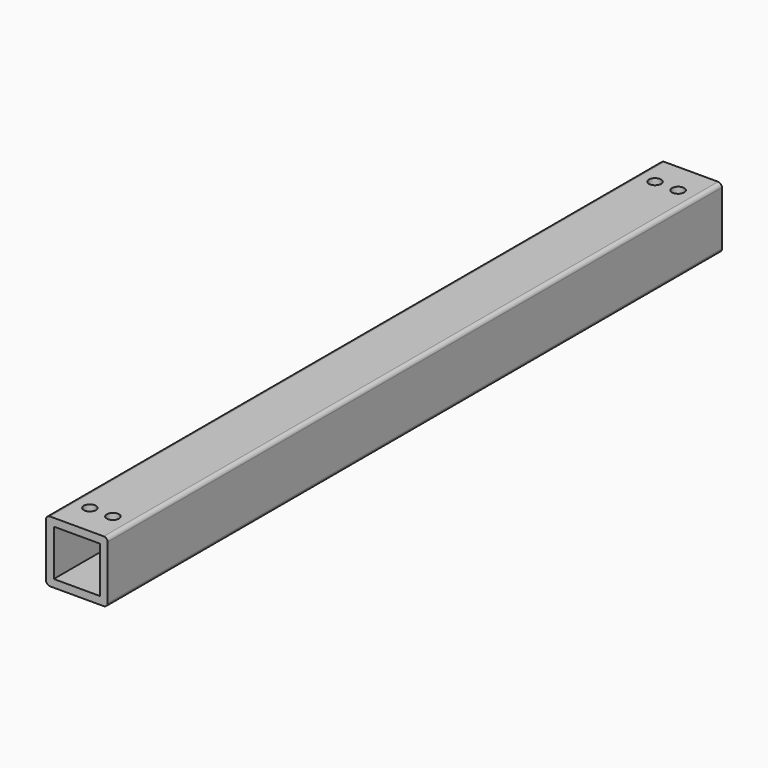
from build123d import *

# Parameters (mm, degrees)
F0_W     = 38.1
F0_H     = 38.1
F1_DEPTH = 634.38786
F2_R     = 5
F3_DEPTH = 25.4


with BuildPart() as f1:
    # F0 (on Front) → F1 (new body)
    with BuildSketch(Plane.XZ):
        with BuildLine():
            Line((15.980036, 28.785883), (-28.469964, 28.785883))
            ThreePointArc((-28.469964, 28.785883), (-30.715028, 27.855947), (-31.644964, 25.610883))
            Line((-31.644964, 25.610883), (-31.644964, -18.839117))
            ThreePointArc((-31.644964, -18.839117), (-30.715028, -21.084181), (-28.469964, -22.014117))
            Line((-28.469964, -22.014117), (15.980036, -22.014117))
            ThreePointArc((15.980036, -22.014117), (18.2251, -21.084181), (19.155036, -18.839117))
            Line((19.155036, -18.839117), (19.155036, 25.610883))
            ThreePointArc((19.155036, 25.610883), (18.2251, 27.855947), (15.980036, 28.785883))
        make_face()
        with Locations((-6.244964, 3.385883)):
            Rectangle(F0_W, F0_H, mode=Mode.SUBTRACT)
    extrude(amount=F1_DEPTH)

    # F2 (on face) → F3 (cut)
    with BuildSketch(Plane.XY.offset(28.785883)):
        with Locations((-15.769964, -25.4)):
            Circle(F2_R)
        with Locations((3.280036, -25.4)):
            Circle(F2_R)
        with Locations((-15.769964, -608.98786)):
            Circle(F2_R)
        with Locations((3.280036, -608.98786)):
            Circle(F2_R)
    extrude(amount=-F3_DEPTH, mode=Mode.SUBTRACT)


solid = f1.part
